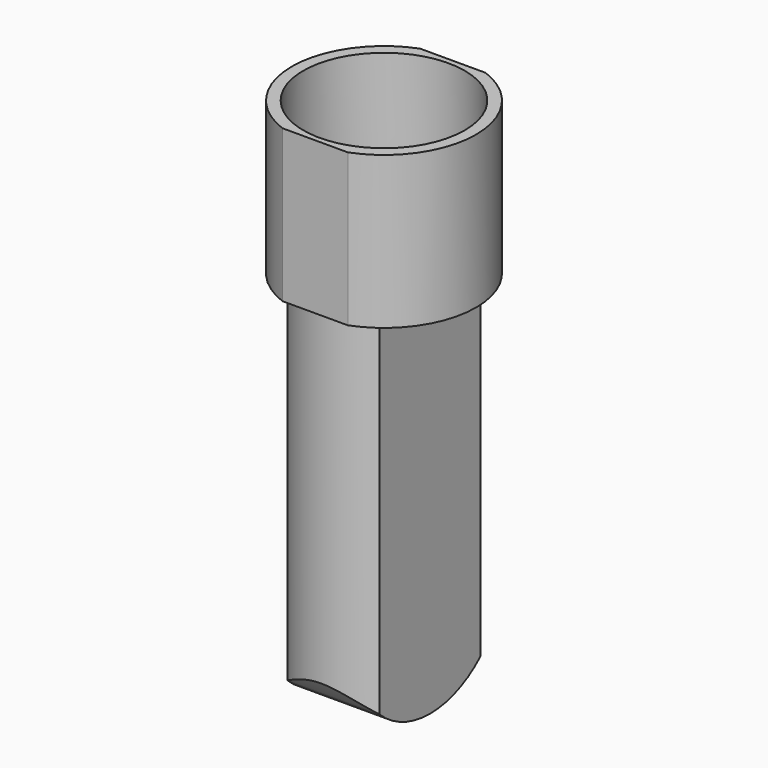
from build123d import *

# Parameters (mm, degrees)
F1_DEPTH = 38
F2_R     = 20.15
F3_DEPTH = 26
F5_DEPTH = 93
F7_DEPTH = 34.501


with BuildPart() as f1:
    # F0 (on Top) → F1 (new body)
    with BuildSketch(Plane.XY):
        with BuildLine():
            Line((8.170067, 21.5), (-8.170067, 21.5))
            ThreePointArc((-8.170067, 21.5), (-23, 0), (-8.170067, -21.5))
            Line((-8.170067, -21.5), (8.170067, -21.5))
            ThreePointArc((8.170067, -21.5), (23, 0), (8.170067, 21.5))
        make_face()
    extrude(amount=F1_DEPTH)

    # F2 (on face) → F3 (cut)
    with BuildSketch(Plane.XY.offset(38)):
        Circle(F2_R)
    extrude(amount=-F3_DEPTH, mode=Mode.SUBTRACT)

    # F4 (on face) → F5 (join)
    with BuildSketch(Plane(origin=(0, 0, 0), x_dir=(1, 0, 0), z_dir=(0, 0, -1))):
        with BuildLine():
            Line((-11.5, 15.748016), (-11.5, -15.748016))
            ThreePointArc((-11.5, -15.748016), (0, -19.5), (11.5, -15.748016))
            Line((11.5, -15.748016), (11.5, 15.748016))
            ThreePointArc((11.5, 15.748016), (0, 19.5), (-11.5, 15.748016))
        make_face()
    extrude(amount=F5_DEPTH)

    # F6 (on face) → F7 (cut, through all)
    with BuildSketch(Plane.YZ.offset(11.5)):
        with BuildLine():
            ThreePointArc((-15.748016, -86.763055), (-21.109291, -79.132241), (-23, -70))
            Line((-23, -70), (-43.104626, -112.954825))
            Line((-43.104626, -112.954825), (34.318805, -112.954825))
            Line((34.318805, -112.954825), (23, -70))
            ThreePointArc((23, -70), (21.109291, -79.132241), (15.748016, -86.763055))
            Line((15.748016, -86.763055), (15.748016, -93))
            Line((15.748016, -93), (0, -93))
            Line((0, -93), (-15.748016, -93))
            Line((-15.748016, -93), (-15.748016, -86.763055))
        make_face()
        with BuildLine():
            ThreePointArc((0, -93), (-8.469054, -91.383992), (-15.748016, -86.763055))
            Line((-15.748016, -86.763055), (-15.748016, -93))
            Line((-15.748016, -93), (0, -93))
        make_face()
        with BuildLine():
            ThreePointArc((15.748016, -86.763055), (8.469054, -91.383992), (0, -93))
            Line((0, -93), (15.748016, -93))
            Line((15.748016, -93), (15.748016, -86.763055))
        make_face()
    extrude(amount=-F7_DEPTH, mode=Mode.SUBTRACT)


solid = f1.part
